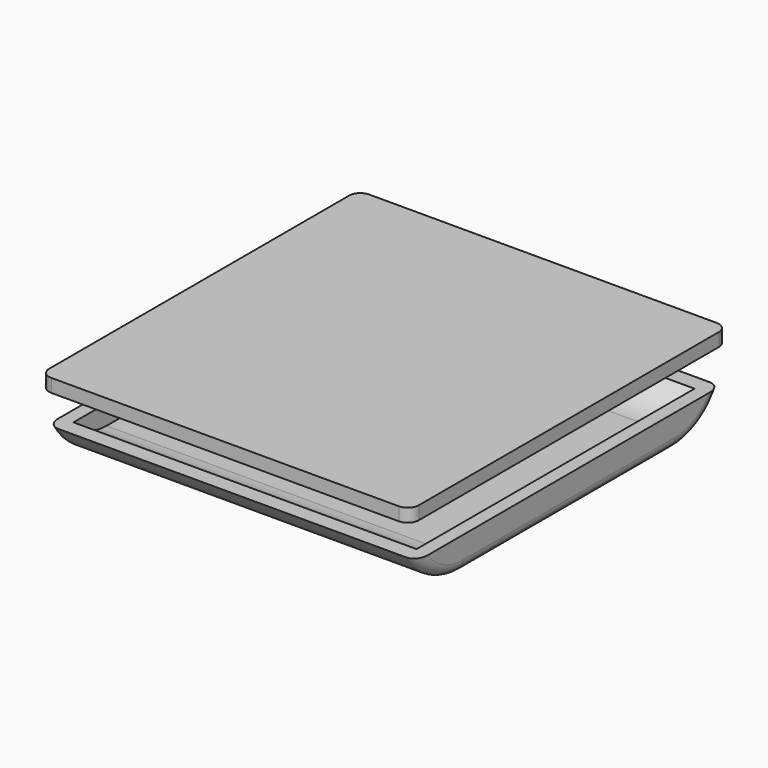
from build123d import *

# Parameters (mm, degrees)
F0_W      = 67
F0_H      = 72
F1_DEPTH  = 6
F3_DEPTH  = 67.001
F4_R      = 2
F5_T      = -2.4
F7_DEPTH  = 9
F8_R      = 1
F10_W     = 67
F10_H     = 72
F11_DEPTH = 2.4
F12_R     = 6.25
F13_DEPTH = 10
F12_R_2   = 14.3
F12_R_3   = 11.9
F14_DEPTH = 9
F15_R     = 2


with BuildPart() as f1:
    # F0 (on Top) → F1 (new body)
    with BuildSketch(Plane.XY):
        with Locations((33.5, 36)):
            Rectangle(F0_W, F0_H)
    extrude(amount=F1_DEPTH)

    # F2 (on face) → F3 (cut, through all)
    with BuildSketch(Plane(origin=(0, 0, 0), x_dir=(0, -1, 0), z_dir=(-1, 0, 0))):
        with BuildLine():
            Line((-70.3923048454, 6), (-72, 6))
            Line((-72, 6), (-72, 0))
            Line((-72, 0), (-60, 0))
            ThreePointArc((-60, 0), (-66, 1.6076951546), (-70.3923048454, 6))
        make_face()
        with BuildLine():
            Line((0, 6), (-1.6076951546, 6))
            ThreePointArc((-1.6076951546, 6), (-6, 1.6076951546), (-12, 0))
            Line((-12, 0), (0, 0))
            Line((0, 0), (0, 6))
        make_face()
    extrude(amount=-F3_DEPTH, mode=Mode.SUBTRACT)

    # F4
    f4_edges = [f1.edges().sort_by_distance(p)[0] for p in [
        (0, 6, 1.607695),
        (67, 6, 1.607695),
    ]]
    fillet(f4_edges, radius=F4_R)

    # F5
    f5_openings = [f1.faces().sort_by_distance(p)[0] for p in [
        (33.5, 36, 6),
    ]]
    offset(amount=F5_T, openings=f5_openings)

    # F6 (on face) → F7 (join)
    with BuildSketch(Plane.XY.offset(2.4)):
        with BuildLine():
            ThreePointArc((29.5, 27.6595863412), (33.5, 45.25), (37.5, 27.6595863412))
            Line((37.5, 27.6595863412), (37.5, 25.0582222651))
            ThreePointArc((37.5, 25.0582222651), (33.5, 47.65), (29.5, 25.0582222651))
            Line((29.5, 25.0582222651), (29.5, 27.6595863412))
        make_face()
    extrude(amount=F7_DEPTH)

    # F8
    f8_edges = [f1.edges().sort_by_distance(p)[0] for p in [
        (29.5, 27.659586, 6.9),
        (37.5, 27.659586, 6.9),
    ]]
    fillet(f8_edges, radius=F8_R)


with BuildPart() as f11:
    # F10 (on offset) → F11 (new body)
    with BuildSketch(Plane.XY.offset(14.8)):
        with Locations((33.5, 36)):
            Rectangle(F10_W, F10_H)
    extrude(amount=-F11_DEPTH)

    # F12 (on face) → F13 (join)
    with BuildSketch(Plane(origin=(0, 0, 12.4), x_dir=(1, 0, 0), z_dir=(0, 0, -1))):
        with Locations((33.5, -36)):
            Circle(F12_R)
    extrude(amount=F13_DEPTH)

    # F12 (on face) → F14 (join)
    with BuildSketch(Plane(origin=(0, 0, 12.4), x_dir=(1, 0, 0), z_dir=(0, 0, -1))):
        with Locations((33.5, -36)):
            Circle(F12_R_2)
        with Locations((33.5, -36)):
            Circle(F12_R_3, mode=Mode.SUBTRACT)
    extrude(amount=F14_DEPTH)

    # F15
    f15_edges = [f11.edges().sort_by_distance(p)[0] for p in [
        (67, 0, 13.6),
        (0, 0, 13.6),
        (0, 72, 13.6),
        (67, 72, 13.6),
    ]]
    fillet(f15_edges, radius=F15_R)


solid = Compound([f1.part, f11.part])
